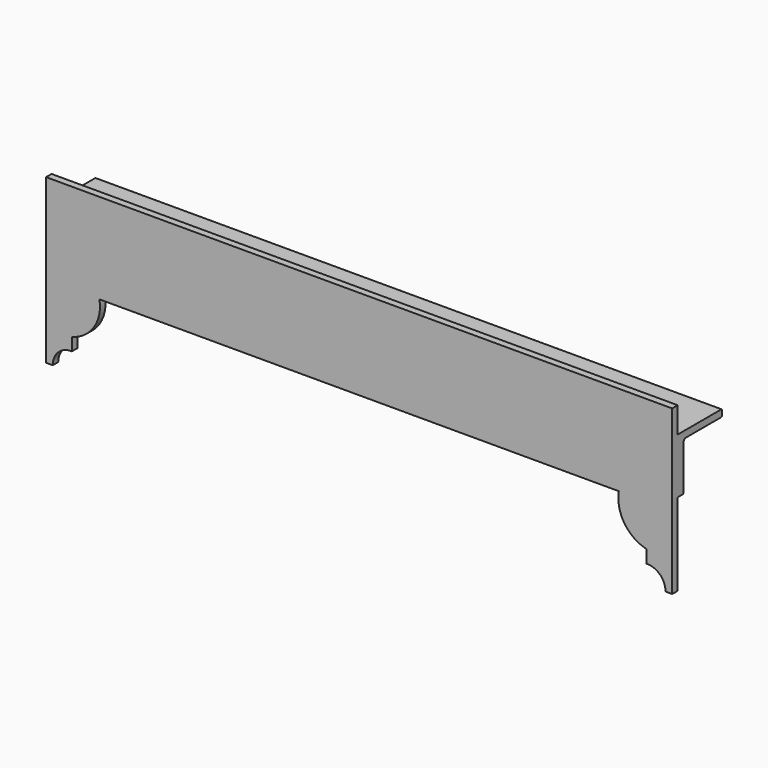
from build123d import *

# Parameters (mm, degrees)
F1_DEPTH = 4.7625
F3_DEPTH = 431.8


with BuildPart() as f1:
    # F0 (on Front) → F1 (new body)
    with BuildSketch(Plane.XZ):
        with BuildLine():
            Line((0, 0), (-215.9, 0))
            Line((-215.9, 0), (-431.8, 0))
            Line((-431.8, 0), (-431.8, -112.7125))
            Line((-431.8, -112.7125), (-427.228, -112.7125))
            ThreePointArc((-427.228, -112.7125), (-423.326818, -103.5544), (-414.02, -100.022664))
            Line((-414.02, -100.022664), (-414.02, -91.132664))
            ThreePointArc((-414.02, -91.132664), (-398.8091, -80.428959), (-394.97, -62.23))
            Line((-394.97, -62.23), (-215.9, -62.23))
            Line((-215.9, -62.23), (-36.83, -62.23))
            ThreePointArc((-36.83, -62.23), (-32.9909, -80.428959), (-17.78, -91.132664))
            Line((-17.78, -91.132664), (-17.78, -100.022664))
            ThreePointArc((-17.78, -100.022664), (-8.473182, -103.5544), (-4.572, -112.7125))
            Line((-4.572, -112.7125), (0, -112.7125))
            Line((0, -112.7125), (0, 0))
        make_face()
    extrude(amount=-F1_DEPTH)

    # F2 (on face) → F3 (join, through all)
    with BuildSketch(Plane(origin=(-431.8, 0, 0), x_dir=(0, -1, 0), z_dir=(-1, 0, 0))):
        with BuildLine():
            Line((-4.7625, -55.88), (-4.7625, -17.78))
            Line((-4.7625, -17.78), (-42.3545, -17.78))
            ThreePointArc((-42.3545, -17.78), (-42.71371, -17.92879), (-42.8625, -18.288))
            Line((-42.8625, -18.288), (-42.8625, -22.0345))
            ThreePointArc((-42.8625, -22.0345), (-42.71371, -22.39371), (-42.3545, -22.5425))
            Line((-42.3545, -22.5425), (-12.0777, -22.5425))
            ThreePointArc((-12.0777, -22.5425), (-10.281649, -23.286449), (-9.5377, -25.0825))
            Line((-9.5377, -25.0825), (-9.5377, -55.372))
            ThreePointArc((-9.5377, -55.372), (-9.38891, -55.73121), (-9.0297, -55.88))
            Line((-9.0297, -55.88), (-4.7625, -55.88))
        make_face()
    extrude(amount=-F3_DEPTH)


solid = f1.part
